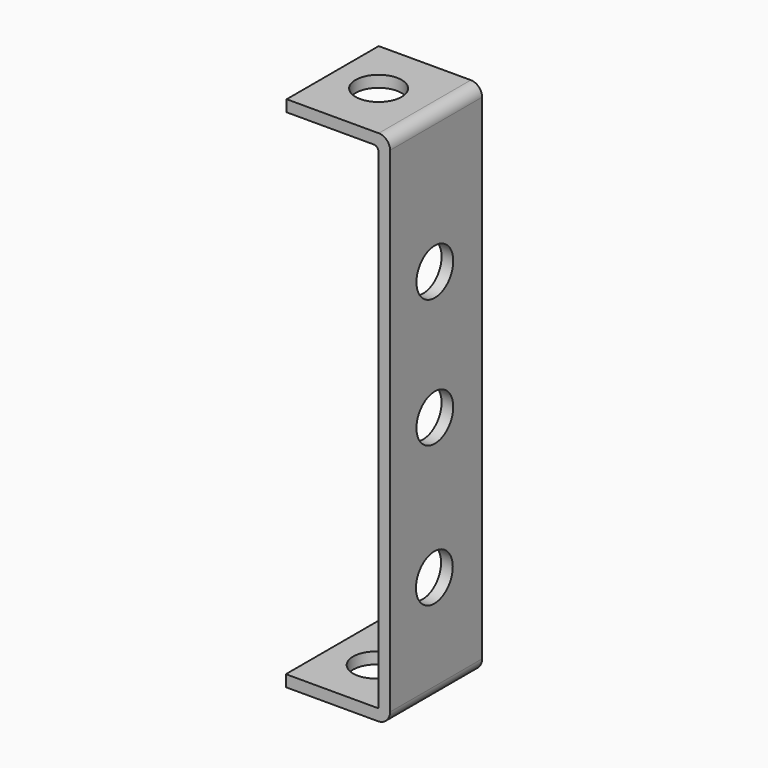
from build123d import *

# Parameters (mm, degrees)
CYLINDER030_R               = 2
CYLINDER030_DEPTH           = 10
CYLINDER030_PITCH_ANGLE     = 90
CYLINDER030_PLACEMENT_ANGLE = 7e-06
CYLINDER031_R               = 2
CYLINDER031_DEPTH           = 10
CYLINDER031_PITCH_ANGLE     = 90
CYLINDER031_PLACEMENT_ANGLE = 7e-06
CYLINDER026_R               = 2
CYLINDER026_DEPTH           = 2
CYLINDER026_ROLL_ANGLE      = -88.507054
CYLINDER026_PITCH_ANGLE     = -87.01751
CYLINDER026_PLACEMENT_ANGLE = -92.244015
CYLINDER028_R               = 2
CYLINDER028_DEPTH           = 2
CYLINDER028_PLACEMENT_ANGLE = 90.00001
CYLINDER029_R               = 2
CYLINDER029_DEPTH           = 2
CYLINDER029_ROLL_ANGLE      = 90
CYLINDER027_R               = 2
CYLINDER027_DEPTH           = 2
CYLINDER027_ROLL_ANGLE      = 90
CYLINDER025_R               = 2
CYLINDER025_DEPTH           = 2
CYLINDER025_ROLL_ANGLE      = -88.507054
CYLINDER025_PITCH_ANGLE     = -87.01751
CYLINDER025_PLACEMENT_ANGLE = -92.244015
PAD006_DEPTH                = 10
CUT032_PITCH_ANGLE          = 90
CUT032_PLACEMENT_ANGLE      = 90


with BuildPart() as cylinder030:
    # Cylinder030 → Cylinder030 (new body)
    with BuildSketch(Plane.XY):
        Circle(CYLINDER030_R)
    extrude(amount=CYLINDER030_DEPTH)


with BuildPart() as cylinder030_1:
    # Cylinder030 pitch: moved
    add(cylinder030.part.rotate(Axis((0, 0, 0), (0, 1, 0)), CYLINDER030_PITCH_ANGLE))


with BuildPart() as cylinder030_2:
    # Cylinder030 placement: moved
    add(cylinder030_1.part.moved(Location((15.49, 3.9, 4.87))).rotate(Axis((15.49, 3.9, 4.87), (0, 0, 1)), CYLINDER030_PLACEMENT_ANGLE))


with BuildPart() as cylinder031:
    # Cylinder031 → Cylinder031 (new body)
    with BuildSketch(Plane.XY):
        Circle(CYLINDER031_R)
    extrude(amount=CYLINDER031_DEPTH)


with BuildPart() as cylinder031_1:
    # Cylinder031 pitch: moved
    add(cylinder031.part.rotate(Axis((0, 0, 0), (0, 1, 0)), CYLINDER031_PITCH_ANGLE))


with BuildPart() as cylinder031_2:
    # Cylinder031 placement: moved
    add(cylinder031_1.part.moved(Location((-28.4147, 3.9, 5.14))).rotate(Axis((-28.4147, 3.9, 5.14), (0, 0, 1)), CYLINDER031_PLACEMENT_ANGLE))


with BuildPart() as cylinder026:
    # Cylinder026 → Cylinder026 (new body)
    with BuildSketch(Plane.XY):
        Circle(CYLINDER026_R)
    extrude(amount=CYLINDER026_DEPTH)


with BuildPart() as cylinder026_1:
    # Cylinder026 roll: moved
    add(cylinder026.part.rotate(Axis((0, 0, 0), (1, 0, 0)), CYLINDER026_ROLL_ANGLE))


with BuildPart() as cylinder026_2:
    # Cylinder026 pitch: moved
    add(cylinder026_1.part.rotate(Axis((0, 0, 0), (0, 1, 0)), CYLINDER026_PITCH_ANGLE))


with BuildPart() as cylinder026_3:
    # Cylinder026 placement: moved
    add(cylinder026_2.part.moved(Location((-26, 5.29, 4.9))).rotate(Axis((-26, 5.29, 4.9), (0, 0, 1)), CYLINDER026_PLACEMENT_ANGLE))


with BuildPart() as cylinder028:
    # Cylinder028 → Cylinder028 (new body)
    with BuildSketch(Plane.XY):
        Circle(CYLINDER028_R)
    extrude(amount=CYLINDER028_DEPTH)


with BuildPart() as cylinder028_1:
    # Cylinder028 placement: moved
    add(cylinder028.part.moved(Location((-11.1555, 0, 4.86401))).rotate(Axis((-11.1555, 0, 4.86401), (1, 0, 0)), CYLINDER028_PLACEMENT_ANGLE))


with BuildPart() as cylinder029:
    # Cylinder029 → Cylinder029 (new body)
    with BuildSketch(Plane.XY):
        Circle(CYLINDER029_R)
    extrude(amount=CYLINDER029_DEPTH)


with BuildPart() as cylinder029_1:
    # Cylinder029 roll: moved
    add(cylinder029.part.rotate(Axis((0, 0, 0), (1, 0, 0)), CYLINDER029_ROLL_ANGLE))


with BuildPart() as cylinder029_2:
    # Cylinder029 placement: moved
    add(cylinder029_1.part.moved(Location((0, 0, 4.86401))))


with BuildPart() as cylinder027:
    # Cylinder027 → Cylinder027 (new body)
    with BuildSketch(Plane.XY):
        Circle(CYLINDER027_R)
    extrude(amount=CYLINDER027_DEPTH)


with BuildPart() as cylinder027_1:
    # Cylinder027 roll: moved
    add(cylinder027.part.rotate(Axis((0, 0, 0), (1, 0, 0)), CYLINDER027_ROLL_ANGLE))


with BuildPart() as cylinder027_2:
    # Cylinder027 placement: moved
    add(cylinder027_1.part.moved(Location((12.2129, 0, 4.81114))))


with BuildPart() as cylinder025:
    # Cylinder025 → Cylinder025 (new body)
    with BuildSketch(Plane.XY):
        Circle(CYLINDER025_R)
    extrude(amount=CYLINDER025_DEPTH)


with BuildPart() as cylinder025_1:
    # Cylinder025 roll: moved
    add(cylinder025.part.rotate(Axis((0, 0, 0), (1, 0, 0)), CYLINDER025_ROLL_ANGLE))


with BuildPart() as cylinder025_2:
    # Cylinder025 pitch: moved
    add(cylinder025_1.part.rotate(Axis((0, 0, 0), (0, 1, 0)), CYLINDER025_PITCH_ANGLE))


with BuildPart() as cylinder025_3:
    # Cylinder025 placement: moved
    add(cylinder025_2.part.moved(Location((25, 5.38, 4.9))).rotate(Axis((25, 5.38, 4.9), (0, 0, 1)), CYLINDER025_PLACEMENT_ANGLE))


with BuildPart() as cut032:
    # Sketch007 → Pad006 (new body)
    with BuildSketch(Plane.XY):
        with BuildLine():
            Line((20.546084, -1.208272), (-22.415471, -1.208272))
            ThreePointArc((-23.400725, -0.223018), (-23.112151, -0.919698), (-22.415471, -1.208272))
            Line((-23.400725, 7.776982), (-23.400725, -0.223018))
            Line((-23.400725, 7.776982), (-22.400725, 7.776982))
            Line((-22.400725, 7.776982), (-22.400725, 0.197829))
            ThreePointArc((-22.400725, 0.197829), (-22.286166, -0.07874), (-22.009596, -0.193299))
            Line((-22.009596, -0.193299), (20.555186, -0.193299))
            ThreePointArc((20.555186, -0.193299), (20.586324, -0.180401), (20.599222, -0.149263))
            Line((20.599222, 7.844865), (20.599222, -0.149263))
            Line((21.599222, 7.844865), (20.599222, 7.844865))
            Line((21.599222, 7.844865), (21.599222, -0.155135))
            ThreePointArc((20.546084, -1.208272), (21.290765, -0.899815), (21.599222, -0.155135))
        make_face()
    extrude(amount=PAD006_DEPTH)

    # Cut005: cut Cylinder025
    add(cylinder025_3.part, mode=Mode.SUBTRACT)

    # Cut006: cut Cylinder027
    add(cylinder027_2.part, mode=Mode.SUBTRACT)

    # Cut007: cut Cylinder029
    add(cylinder029_2.part, mode=Mode.SUBTRACT)

    # Cut008: cut Cylinder028
    add(cylinder028_1.part, mode=Mode.SUBTRACT)

    # Cut009: cut Cylinder026
    add(cylinder026_3.part, mode=Mode.SUBTRACT)

    # Cut018: cut Cylinder031
    add(cylinder031_2.part, mode=Mode.SUBTRACT)

    # Cut032: cut Cylinder030
    add(cylinder030_2.part, mode=Mode.SUBTRACT)


with BuildPart() as cut032_1:
    # Cut032 pitch: moved
    add(cut032.part.rotate(Axis((0, 0, 0), (0, 1, 0)), CUT032_PITCH_ANGLE))


with BuildPart() as cut032_2:
    # Cut032 placement: moved
    add(cut032_1.part.moved(Location((-56.7371, 44.4421, 126))).rotate(Axis((-56.7371, 44.4421, 126), (0, 0, 1)), CUT032_PLACEMENT_ANGLE))


solid = cut032_2.part
